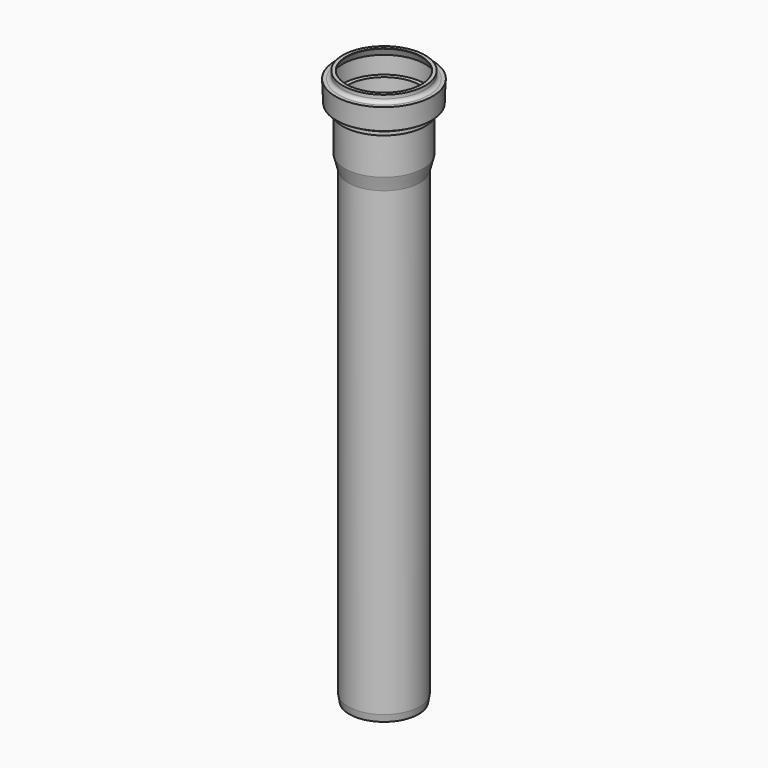
from build123d import *

# Parameters (mm, degrees)
F0_W     = 1.5
F0_H     = 6.264
F2_DEPTH = 255
F3_SIZE2 = 0.7053079228
F3_SIZE  = 4


with BuildPart() as f1:
    # F0 (on Front) → F1 (revolve)
    with BuildSketch(Plane.XZ):
        with BuildLine():
            Line((-1.8977640684, 2.5627018091), (-0.8977640684, 2.5627018091))
            Line((-0.8977640684, 2.5627018091), (-0.8977640684, -18.4372981909))
            Line((-0.8977640684, -18.4372981909), (1.1022359316, -26.1832648833))
            Line((1.1022359316, -26.1832648833), (2.6022359316, -26.1832648833))
            Line((2.6022359316, -26.1832648833), (0.6253340279, -18.3980558312))
            Line((0.6253340279, -18.3980558312), (0.6022359316, 8.5731884591))
            Line((0.6022359316, 8.5731884591), (-1.8977640684, 8.5627018091))
            Line((-1.8977640684, 8.5627018091), (-1.8977640684, 18.240797309))
            Line((-1.8977640684, 18.240797309), (0.1022359316, 22.2902958969))
            Line((0.1022359316, 22.2902958969), (0.1022359316, 22.5522806174))
            Line((0.1022359316, 22.5522806174), (-1.8977640684, 22.5522806174))
            Line((-1.8977640684, 22.5522806174), (-1.8977640684, 20.5522806174))
            ThreePointArc((-1.8977640684, 20.5522806174), (-2.483550506, 19.138067055), (-3.8977640684, 18.5522806174))
            Line((-3.8977640684, 18.5522806174), (-5.8977640684, 18.5522806174))
            Line((-5.8977640684, 18.5522806174), (-5.3977640684, 6.5627018091))
            Line((-5.3977640684, 6.5627018091), (-0.8977640684, 6.5627018091))
            Line((-0.8977640684, 6.5627018091), (-0.8977640684, 4.5627018091))
            Line((-0.8977640684, 4.5627018091), (-1.8977640684, 4.5627018091))
            Line((-1.8977640684, 4.5627018091), (-1.8977640684, 2.5627018091))
        make_face()
        with Locations((1.8522359316, -29.3152648833)):
            Rectangle(F0_W, F0_H)
    revolve(axis=Axis((21.1022359316, 0, -25.8119600499), (0, 0, 1)))

    # F2 (add): a face of the model
    f2_faces = [f1.faces().sort_by_distance(p)[0] for p in [
        (40.5365505067, 0, -32.4472648833),
    ]]
    extrude(f2_faces, amount=F2_DEPTH)

    # F3
    f3_edges = [f1.edges().sort_by_distance(p)[0] for p in [
        (41.102236, 0, -287.447265),
    ]]
    chamfer(f3_edges, length=F3_SIZE, length2=F3_SIZE2)


solid = f1.part
